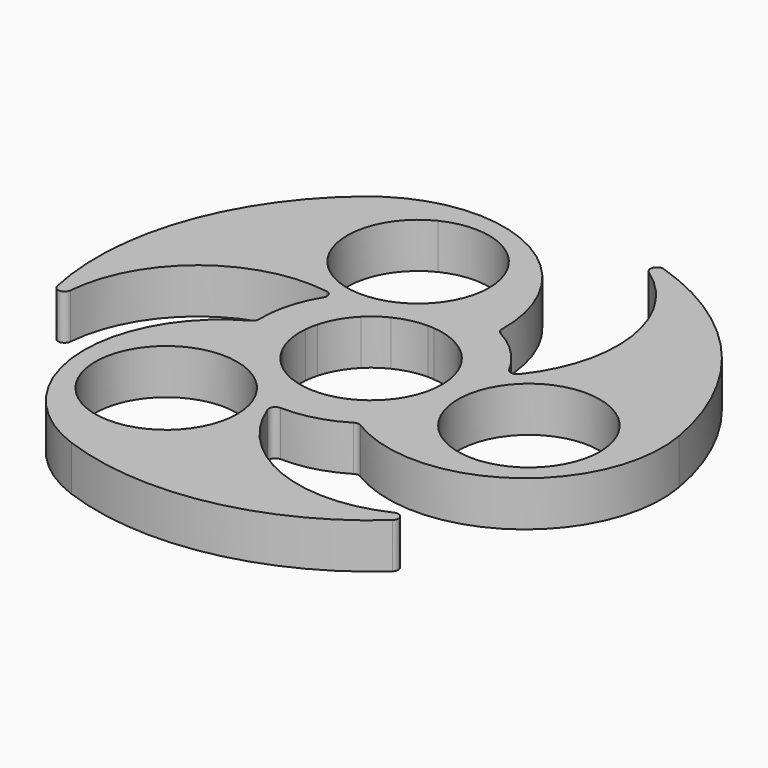
from build123d import *

# Parameters (mm, degrees)
F0_R     = 11
F1_DEPTH = 7


with BuildPart() as f1:
    # F0 (on Top) → F1 (new body)
    with BuildSketch(Plane.XY):
        with BuildLine():
            ThreePointArc((9.925432, -14.490305), (32.935771, -13.841544), (41.85433, 7.380048))
            ThreePointArc((41.85433, 7.380048), (32.041137, 27.921596), (13.034619, 40.451807))
            ThreePointArc((13.034619, 40.451807), (11.832028, 39.944268), (12.155881, 38.679775))
            ThreePointArc((12.155881, 38.679775), (21.03148, 24.28963), (16.593525, 7.975309))
            ThreePointArc((16.593525, 7.975309), (15.724461, 7.603896), (14.934172, 8.122222))
            ThreePointArc((14.934172, 8.122222), (12.015511, 12.026117), (8.109042, 14.941333))
            ThreePointArc((8.109042, 14.941333), (7.721464, 15.317742), (7.586257, 15.840829))
            ThreePointArc((7.586257, 15.840829), (-0.116833, 32.654213), (-18.07736, 37.064081))
            ThreePointArc((-18.07736, 37.064081), (-22.974624, 35.377818), (-27.318473, 32.556889))
            ThreePointArc((-27.318473, 32.556889), (-40.20138, 13.787641), (-41.549602, -8.937592))
            ThreePointArc((-41.549602, -8.937592), (-40.508765, -9.725297), (-39.575608, -8.812586))
            ThreePointArc((-39.575608, -8.812586), (-31.551177, 6.068981), (-15.203582, 10.38276))
            ThreePointArc((-15.203582, 10.38276), (-14.447398, 9.815835), (-14.501137, 8.872262))
            ThreePointArc((-14.501137, 8.872262), (-16.422679, 4.392679), (-16.994095, -0.44803))
            ThreePointArc((-16.994095, -0.44803), (-17.126285, -0.971887), (-17.511688, -1.350523))
            ThreePointArc((-17.511688, -1.350523), (-28.455014, -21.602443), (-14.535856, -39.936936))
            ThreePointArc((-14.535856, -39.936936), (8.160243, -41.709237), (28.514983, -31.514215))
            ThreePointArc((28.514983, -31.514215), (28.676737, -30.218971), (27.419728, -29.867189))
            ThreePointArc((27.419728, -29.867189), (10.519697, -30.358611), (-1.389943, -18.358068))
            ThreePointArc((-1.389943, -18.358068), (-1.277063, -17.419731), (-0.433035, -16.994484))
            ThreePointArc((-0.433035, -16.994484), (4.407168, -16.418796), (8.885053, -14.493303))
            ThreePointArc((8.885053, -14.493303), (9.404822, -14.345854), (9.925432, -14.490305))
        make_face()
        with Locations((-14.539015, -21.554977)):
            Circle(F0_R, mode=Mode.SUBTRACT)
        with Locations((25.936665, -1.813668)):
            Circle(F0_R, mode=Mode.SUBTRACT)
        with BuildLine():
            ThreePointArc((-6.575567, 13.481911), (-21.284384, 18.546563), (-16.219732, 33.25538))
            ThreePointArc((-16.219732, 33.25538), (-5.568538, 32.697174), (-0.39765, 23.368645))
            ThreePointArc((-0.39765, 23.368645), (-2.069121, 17.539533), (-6.575567, 13.481911))
        make_face(mode=Mode.SUBTRACT)
        with BuildLine():
            ThreePointArc((-7.778211, 7.778138), (-6.387753, 8.955256), (-4.822083, 9.886735))
            ThreePointArc((-4.822083, 9.886735), (-2.474462, 10.718071), (0, 11))
            ThreePointArc((0, 11), (0.479839, 10.989529), (0.958764, 10.958137))
            ThreePointArc((0.958764, 10.958137), (3.762222, 10.336619), (6.309299, 9.010702))
            ThreePointArc((6.309299, 9.010702), (7.070664, 8.426489), (7.778211, 7.778138))
            ThreePointArc((7.778211, 7.778138), (9.526279, 5.5), (10.625171, 2.847059))
            ThreePointArc((10.625171, 2.847059), (10.739251, 2.380861), (10.832885, 1.91013))
            ThreePointArc((10.832885, 1.91013), (10.958142, 0.958713), (11, 0))
            ThreePointArc((11, 0), (10.490879, -3.307788), (9.010643, -6.309383))
            ThreePointArc((9.010643, -6.309383), (7.070664, -8.426489), (4.648847, -9.969364))
            ThreePointArc((4.648847, -9.969364), (3.762222, -10.336619), (2.84696, -10.625197))
            ThreePointArc((2.84696, -10.625197), (0, -11), (-2.84696, -10.625197))
            ThreePointArc((-2.84696, -10.625197), (-7.070664, -8.426489), (-9.969407, -4.648755))
            ThreePointArc((-9.969407, -4.648755), (-10.832885, -1.91013), (-10.958146, 0.958662))
            ThreePointArc((-10.958146, 0.958662), (-10.832885, 1.91013), (-10.625171, 2.847059))
            ThreePointArc((-10.625171, 2.847059), (-9.526279, 5.5), (-7.778211, 7.778138))
        make_face(mode=Mode.SUBTRACT)
    extrude(amount=F1_DEPTH)


solid = f1.part
